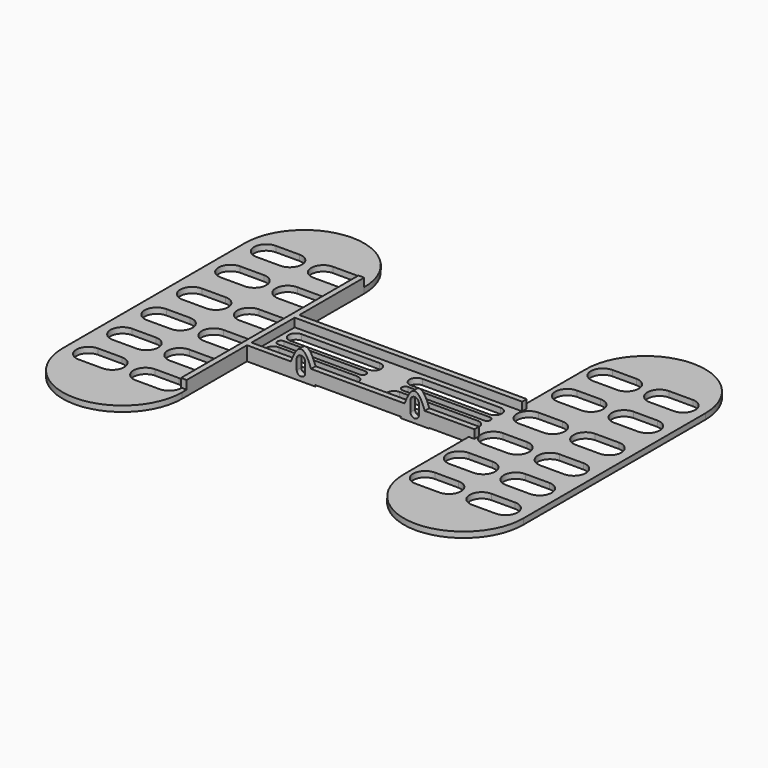
from build123d import *

# Parameters (mm, degrees)
SKETCH_W        = 90
SKETCH_H        = 19
PAD_DEPTH       = 2
POCKET_DEPTH    = 5
PAD001_DEPTH    = 2
POCKET001_DEPTH = 2
POCKET002_DEPTH = 2
PAD002_DEPTH    = 2
POCKET003_DEPTH = 5
SKETCH008_W     = 34.388325
SKETCH008_H     = 4.515208
SKETCH008_W_2   = 18
SKETCH008_H_2   = 5
SKETCH008_H_3   = 4.77531
PAD003_DEPTH    = 2
SKETCH009_W     = 82
SKETCH009_H     = 5
PAD004_DEPTH    = 2
SKETCH010_W     = 2
SKETCH010_H     = 78
PAD005_DEPTH    = 3


with BuildPart() as part:
    # Sketch → Pad (new body)
    with BuildSketch(Plane.XY):
        Rectangle(SKETCH_W, SKETCH_H)
    extrude(amount=PAD_DEPTH)

    # Sketch001 (on Face5 of Pad) → Pocket (cut)
    with BuildSketch(Plane(origin=(0, 0, 0), x_dir=(1, 0, 0), z_dir=(0, 0, -1))):
        with BuildLine():
            ThreePointArc((-7.5, 2.5), (-5, 5), (-7.5, 7.5))
            Line((-7.5, 7.5), (-35, 7.5))
            ThreePointArc((-35, 7.5), (-37.5, 5), (-35, 2.5))
            Line((-7.5, 2.5), (-35, 2.5))
        make_face()
        with BuildLine():
            ThreePointArc((-7.5, -7.5), (-5, -5), (-7.5, -2.5))
            Line((-7.5, -2.5), (-34.999999, -2.5))
            ThreePointArc((-34.999999, -2.5), (-37.499999, -5), (-34.999999, -7.5))
            Line((-7.5, -7.5), (-34.999999, -7.5))
        make_face()
        with BuildLine():
            ThreePointArc((7.500001, 7.5), (5.000001, 5), (7.500001, 2.5))
            Line((7.500001, 2.5), (35.000001, 2.5))
            ThreePointArc((35.000001, 2.5), (37.500001, 5), (35.000001, 7.5))
            Line((7.500001, 7.5), (35.000001, 7.5))
        make_face()
        with BuildLine():
            ThreePointArc((7.5, -2.5), (5, -5), (7.5, -7.5))
            Line((7.5, -7.5), (35, -7.5))
            ThreePointArc((35, -7.5), (37.5, -5), (35, -2.5))
            Line((7.5, -2.5), (35, -2.5))
        make_face()
        with BuildLine():
            ThreePointArc((-7.5, -1.25), (-6.25, 0), (-7.5, 1.25))
            Line((-7.5, 1.25), (-36.25, 1.25))
            ThreePointArc((-36.25, 1.25), (-37.5, 0), (-36.25, -1.25))
            Line((-7.5, -1.25), (-36.25, -1.25))
        make_face()
        with BuildLine():
            ThreePointArc((7.5, 1.25), (6.25, 0), (7.5, -1.25))
            Line((7.5, -1.25), (36.25, -1.25))
            ThreePointArc((36.25, -1.25), (37.5, 0), (36.25, 1.25))
            Line((7.5, 1.25), (36.25, 1.25))
        make_face()
    extrude(amount=-POCKET_DEPTH, mode=Mode.SUBTRACT)

    # Sketch002 (on Face6 of Pocket) → Pad001 (join)
    with BuildSketch(Plane.XZ.offset(9.5)):
        with BuildLine():
            add(Edge.make_bspline(
                [(-25, 0), (-20, 20), (-15, 0)],
                knots=[0, 0, 0, 1, 1, 1], degree=2))
            Line((-15, 0), (-25, 0))
        make_face()
        with BuildLine():
            add(Edge.make_bspline(
                [(15, 0), (20, 20), (25, 0)],
                knots=[0, 0, 0, 1, 1, 1], degree=2))
            Line((25, 0), (15, 0))
        make_face()
    extrude(amount=PAD001_DEPTH)

    # Sketch003 (on Face40 of Pad001) → Pocket001 (cut)
    with BuildSketch(Plane.XZ.offset(11.5)):
        with BuildLine():
            ThreePointArc((-21.5, 3), (-20, 1.5), (-18.5, 3))
            Line((-18.5, 3), (-18.5, 6.499999))
            ThreePointArc((-18.5, 6.499999), (-20, 7.999999), (-21.5, 6.499999))
            Line((-21.5, 3), (-21.5, 6.499999))
        make_face()
    extrude(amount=-POCKET001_DEPTH, mode=Mode.SUBTRACT)

    # Sketch004 (on Face40 of Pocket001) → Pocket002 (cut)
    with BuildSketch(Plane.XZ.offset(11.5)):
        with BuildLine():
            ThreePointArc((18.5, 2.999999), (20, 1.499999), (21.5, 2.999999))
            Line((21.5, 2.999999), (21.5, 6.664478))
            ThreePointArc((21.5, 6.664478), (20, 8.164478), (18.5, 6.664478))
            Line((18.5, 2.999999), (18.5, 6.664478))
        make_face()
    extrude(amount=-POCKET002_DEPTH, mode=Mode.SUBTRACT)

    # Sketch005 (on Face4 of Pocket002) → Pad002 (join)
    with BuildSketch(Plane(origin=(0, 0, 0), x_dir=(1, 0, 0), z_dir=(0, 0, -1))):
        with BuildLine():
            ThreePointArc((-39, 40), (-60, 61), (-81, 40))
            Line((-81, 40), (-81, -40))
            ThreePointArc((-81, -40), (-60, -61), (-39, -40))
            Line((-39, 40), (-39, -40))
        make_face()
    pad002 = extrude(amount=-PAD002_DEPTH)

    # Sketch007 (on Face46 of Pad002) → Pocket003 (cut)
    with BuildSketch(Plane.XY.offset(2)):
        with BuildLine():
            ThreePointArc((-45, 35.760426), (-40.760426, 40), (-45, 44.239574))
            Line((-45, 44.239574), (-53.350871, 44.239574))
            ThreePointArc((-53.350871, 44.239574), (-57.590445, 40), (-53.350871, 35.760426))
            Line((-45, 35.760426), (-53.350871, 35.760426))
        make_face()
        with BuildLine():
            ThreePointArc((-65, 35.642826), (-60.760426, 39.8824), (-65, 44.121974))
            Line((-65, 44.121974), (-73.350871, 44.121974))
            ThreePointArc((-73.350871, 44.121974), (-77.590445, 39.8824), (-73.350871, 35.642826))
            Line((-65, 35.642826), (-73.350871, 35.642826))
        make_face()
        with BuildLine():
            ThreePointArc((-45, 20.1176), (-40.760426, 24.357174), (-45, 28.596748))
            Line((-45, 28.596748), (-53.350871, 28.596748))
            ThreePointArc((-53.350871, 28.596748), (-57.590445, 24.357174), (-53.350871, 20.1176))
            Line((-45, 20.1176), (-53.350871, 20.1176))
        make_face()
        with BuildLine():
            ThreePointArc((-65, 20), (-60.760426, 24.239574), (-65, 28.479148))
            Line((-65, 28.479148), (-73.350871, 28.479148))
            ThreePointArc((-73.350871, 28.479148), (-77.590445, 24.239574), (-73.350871, 20))
            Line((-65, 20), (-73.350871, 20))
        make_face()
        with BuildLine():
            ThreePointArc((-45, 3.260426), (-40.760426, 7.5), (-45, 11.739574))
            Line((-45, 11.739574), (-53.350871, 11.739574))
            ThreePointArc((-53.350871, 11.739574), (-57.590445, 7.5), (-53.350871, 3.260426))
            Line((-45, 3.260426), (-53.350871, 3.260426))
        make_face()
        with BuildLine():
            ThreePointArc((-65, 3.142826), (-60.760426, 7.3824), (-65, 11.621974))
            Line((-65, 11.621974), (-73.350871, 11.621974))
            ThreePointArc((-73.350871, 11.621974), (-77.590445, 7.3824), (-73.350871, 3.142826))
            Line((-65, 3.142826), (-73.350871, 3.142826))
        make_face()
        with BuildLine():
            ThreePointArc((-45, -12.3824), (-40.760426, -8.142826), (-45, -3.903252))
            Line((-45, -3.903252), (-53.350871, -3.903252))
            ThreePointArc((-53.350871, -3.903252), (-57.590445, -8.142826), (-53.350871, -12.3824))
            Line((-45, -12.3824), (-53.350871, -12.3824))
        make_face()
        with BuildLine():
            ThreePointArc((-65, -12.5), (-60.760426, -8.260426), (-65, -4.020852))
            Line((-65, -4.020852), (-73.350871, -4.020852))
            ThreePointArc((-73.350871, -4.020852), (-77.590445, -8.260426), (-73.350871, -12.5))
            Line((-65, -12.5), (-73.350871, -12.5))
        make_face()
        with BuildLine():
            ThreePointArc((-45, -27.3824), (-40.760426, -23.142826), (-45, -18.903252))
            Line((-45, -18.903252), (-53.350871, -18.903252))
            ThreePointArc((-53.350871, -18.903252), (-57.590445, -23.142826), (-53.350871, -27.3824))
            Line((-45, -27.3824), (-53.350871, -27.3824))
        make_face()
        with BuildLine():
            ThreePointArc((-65, -27.5), (-60.760426, -23.260426), (-65, -19.020852))
            Line((-65, -19.020852), (-73.350871, -19.020852))
            ThreePointArc((-73.350871, -19.020852), (-77.590445, -23.260426), (-73.350871, -27.5))
            Line((-65, -27.5), (-73.350871, -27.5))
        make_face()
        with BuildLine():
            ThreePointArc((-45, -42.3824), (-40.760426, -38.142826), (-45, -33.903252))
            Line((-45, -33.903252), (-53.350871, -33.903252))
            ThreePointArc((-53.350871, -33.903252), (-57.590445, -38.142826), (-53.350871, -42.3824))
            Line((-45, -42.3824), (-53.350871, -42.3824))
        make_face()
        with BuildLine():
            ThreePointArc((-65, -42.5), (-60.760426, -38.260426), (-65, -34.020852))
            Line((-65, -34.020852), (-73.350871, -34.020852))
            ThreePointArc((-73.350871, -34.020852), (-77.590445, -38.260426), (-73.350871, -42.5))
            Line((-65, -42.5), (-73.350871, -42.5))
        make_face()
    pocket003 = extrude(amount=-POCKET003_DEPTH, mode=Mode.SUBTRACT)

    # Sketch008 → Pad003 (join)
    with BuildSketch(Plane.XZ.offset(9.5)):
        with Locations((0.194162, 2.742396)):
            Rectangle(SKETCH008_W, SKETCH008_H)
        with Locations((-32, 2.5)):
            Rectangle(SKETCH008_W_2, SKETCH008_H_2)
        with Locations((32, 2.612345)):
            Rectangle(SKETCH008_W_2, SKETCH008_H_3)
    extrude(amount=PAD003_DEPTH)

    # Sketch009 (on Face18 of Pad003) → Pad004 (join)
    with BuildSketch(Plane(origin=(0, 9.5, 0), x_dir=(-1, 0, 0), z_dir=(0, 1, 0))):
        with Locations((0, 2.5)):
            Rectangle(SKETCH009_W, SKETCH009_H)
    extrude(amount=PAD004_DEPTH)

    # Mirrored: Pad002, Pocket003 across Sketch005 V_Axis
    add(pad002.mirror(Plane(origin=(0, 0, 0), x_dir=(0, 0, -1), z_dir=(1, 0, 0))))
    add(pocket003.mirror(Plane(origin=(0, 0, 0), x_dir=(0, 0, -1), z_dir=(1, 0, 0))), mode=Mode.SUBTRACT)

    # Sketch010 (on Face95 of Mirrored) → Pad005 (join)
    with BuildSketch(Plane.XY.offset(2)):
        with Locations((-40, 1)):
            Rectangle(SKETCH010_W, SKETCH010_H)
    extrude(amount=PAD005_DEPTH)


solid = part.part
